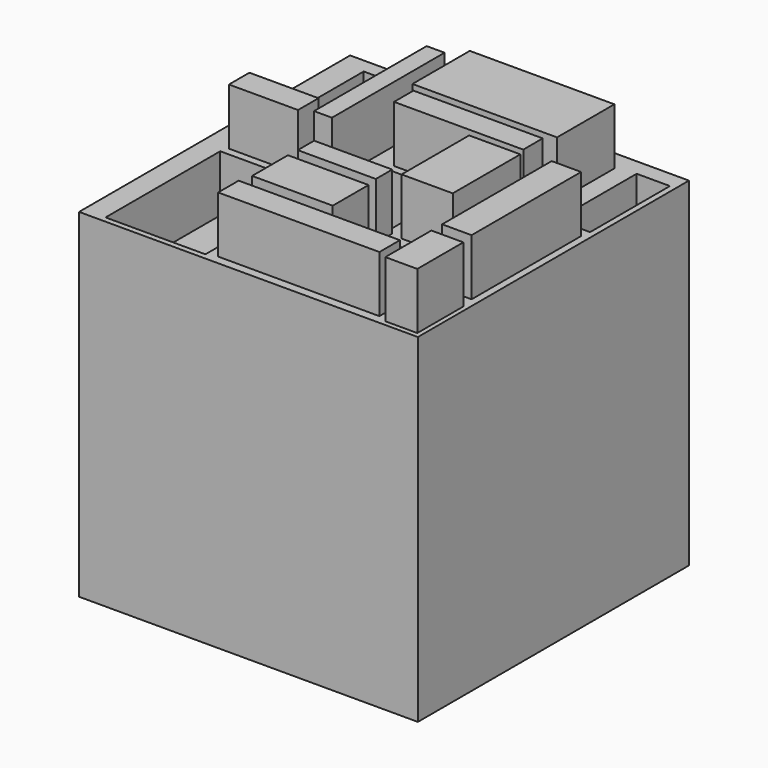
from build123d import *

# Parameters (mm, degrees)
F0_W     = 152.4
F0_H     = 152.4
F1_DEPTH = 152.4
F2_W     = 34.9075235426
F2_H     = 33.3854667842
F2_W_2   = 35.112304613
F2_H_2   = 9.2097893357
F2_W_3   = 58.1367611885
F2_H_3   = 10.9366215765
F2_W_4   = 8.0585666001
F2_H_4   = 63.3172709495
F2_W_5   = 44.897697866
F2_H_5   = 64.4684825093
F2_W_6   = 27.629353106
F2_H_6   = 60.4392085224
F2_W_7   = 31.0830175877
F2_H_7   = 11.5122310817
F2_W_8   = 65.0440976024
F2_H_8   = 32.2342440486
F2_W_9   = 8.6341686547
F2_H_9   = 8.6341649294
F2_W_10  = 14.9659141898
F2_H_10  = 44.8977053165
F2_W_11  = 4.6048909426
F2_H_11  = 35.1123064756
F2_W_12  = 23.0244547129
F2_H_12  = 37.9903591238
F2_W_13  = 13.239055872
F2_H_13  = 61.5904331207
F2_W_14  = 31.0830101371
F2_H_14  = 29.3561927974
F2_W_15  = 14.3903046846
F2_H_15  = 25.9025096893
F2_W_16  = 72.5270435214
F2_H_16  = 11.5122199059
F2_W_17  = 36.2635287456
F2_H_17  = 20.1463997364
F3_DEPTH = 25.4
F4_DEPTH = 50.8


with BuildPart() as f1:
    # F0 (on Top) → F1 (new body)
    with BuildSketch(Plane.XY):
        Rectangle(F0_W, F0_H)
    extrude(amount=F1_DEPTH)

    # F2 (on face) → F3 (join)
    with BuildSketch(Plane.XY.offset(152.4)):
        Rectangle(F2_W, F2_H)
        with Locations((2.4878596887, -25.0390991569)):
            Rectangle(F2_W_2, F2_H_2)
        with Locations((17.4537617713, 25.6147123873)):
            Rectangle(F2_W_3, F2_H_3)
        with Locations((-25.1414887607, 28.7805777043)):
            Rectangle(F2_W_4, F2_H_4)
        with Locations((-43.8488647342, -41.4440259337)):
            Rectangle(F2_W_5, F2_H_5)
        with Locations((-51.0440096259, 39.4293889403)):
            Rectangle(F2_W_6, F2_H_6)
        with Locations((-49.6049784124, 0)):
            Rectangle(F2_W_7, F2_H_7)
        with Locations((17.4537617713, 50.9416200221)):
            Rectangle(F2_W_8, F2_H_8)
        with Locations((-25.1414887607, 68.4977695346)):
            Rectangle(F2_W_9, F2_H_9)
        with Locations((66.0929381847, 46.3367253542)):
            Rectangle(F2_W_10, F2_H_10)
        with Locations((53.4294769168, 11.2244244665)):
            Rectangle(F2_W_11, F2_H_11)
        with Locations((36.44894436, -2.3024461698)):
            Rectangle(F2_W_12, F2_H_12)
        with Locations((66.3807466626, -11.2244244665)):
            Rectangle(F2_W_13, F2_H_13)
        with Locations((40.1904173195, -41.1562249064)):
            Rectangle(F2_W_14, F2_H_14)
        with Locations((66.9563561678, -61.0148198903)):
            Rectangle(F2_W_15, F2_H_15)
        with Locations((19.4684006274, -66.4831325412)):
            Rectangle(F2_W_16, F2_H_16)
        with Locations((2.7756656054, -44.897697866)):
            Rectangle(F2_W_17, F2_H_17)
    extrude(amount=F3_DEPTH)

    # F4 (cut): faces of the model
    f4_faces = [f1.faces().sort_by_distance(p)[0] for p in [
        (-51.0440096259, 39.4293889403, 177.8),
        (0, 0, 177.8),
        (40.1904173195, -41.1562249064, 177.8),
        (-43.8488647342, -41.4440259337, 177.8),
        (66.0929381847, 46.3367253542, 177.8),
        (-25.1414887607, 68.4977695346, 177.8),
        (53.4294769168, 11.2244244665, 177.8),
    ]]
    extrude(f4_faces, amount=-F4_DEPTH, mode=Mode.SUBTRACT)


solid = f1.part
